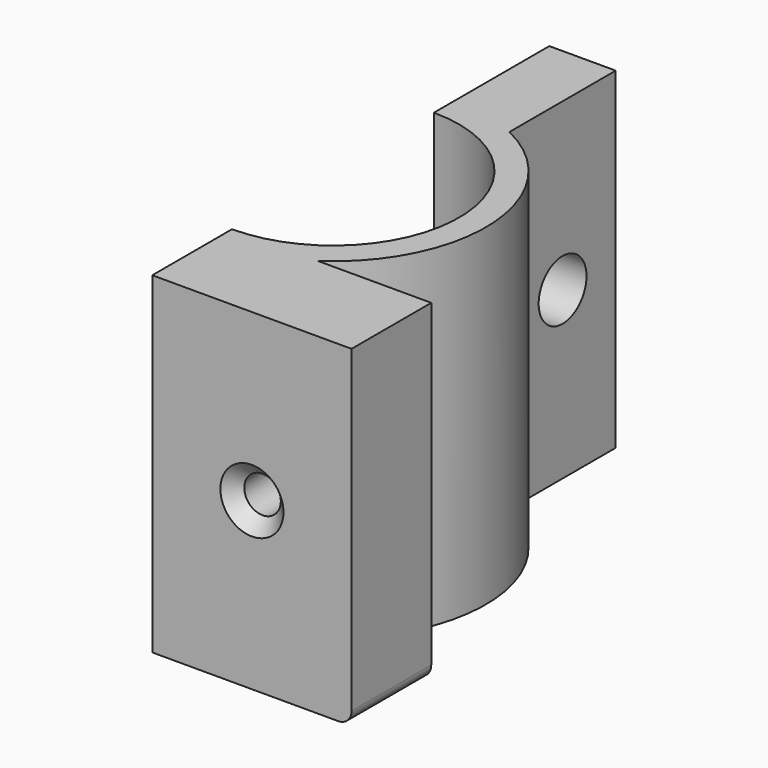
from build123d import *

# Parameters (mm, degrees)
PAD003_DEPTH    = 25
SKETCH009_R     = 1.375
POCKET005_DEPTH = 7
SKETCH010_R     = 2.25
POCKET006_DEPTH = 5
FILLET011_R     = 1
CHAMFER_SIZE    = 1


with BuildPart() as part:
    # Sketch007 (on XY_Plane002 of Origin004) → Pad003 (new body)
    with BuildSketch(Plane.XY):
        with BuildLine():
            ThreePointArc((0, -9.5), (9.5, 0), (0, 9.5))
            Line((0, 9.5), (0, 10.356158))
            Line((0, 20.356158), (0, 10.356158))
            Line((5, 20.356158), (0, 20.356158))
            Line((5, 10.356158), (5, 20.356158))
            ThreePointArc((6.480515, -9.500154), (11.468166, 0.855083), (5, 10.356158))
            Line((15, -9.5), (6.480515, -9.500154))
            Line((15, -17), (15, -9.5))
            Line((0, -17), (15, -17))
            Line((0, -9.5), (0, -17))
        make_face()
    extrude(amount=PAD003_DEPTH)

    # Sketch009 (on Face3 of Pad003) → Pocket005 (cut)
    with BuildSketch(Plane.XZ.offset(17)):
        with Locations((7.5, 12.5)):
            Circle(SKETCH009_R)
    extrude(amount=-POCKET005_DEPTH, mode=Mode.SUBTRACT)

    # Sketch010 (on Face10 of Pocket005) → Pocket006 (cut)
    with BuildSketch(Plane.YZ.offset(5)):
        with Locations((15.356158, 12.5)):
            Circle(SKETCH010_R)
    extrude(amount=-POCKET006_DEPTH, mode=Mode.SUBTRACT)

    # Fillet011
    fillet011_edges = [part.edges().sort_by_distance(p)[0] for p in [
        (15, -13.25, 0),
    ]]
    fillet(fillet011_edges, radius=FILLET011_R)

    # Chamfer
    chamfer_edges = [part.edges().sort_by_distance(p)[0] for p in [
        (6.125, -17, 12.5),
    ]]
    chamfer(chamfer_edges, length=CHAMFER_SIZE)


solid = part.part
